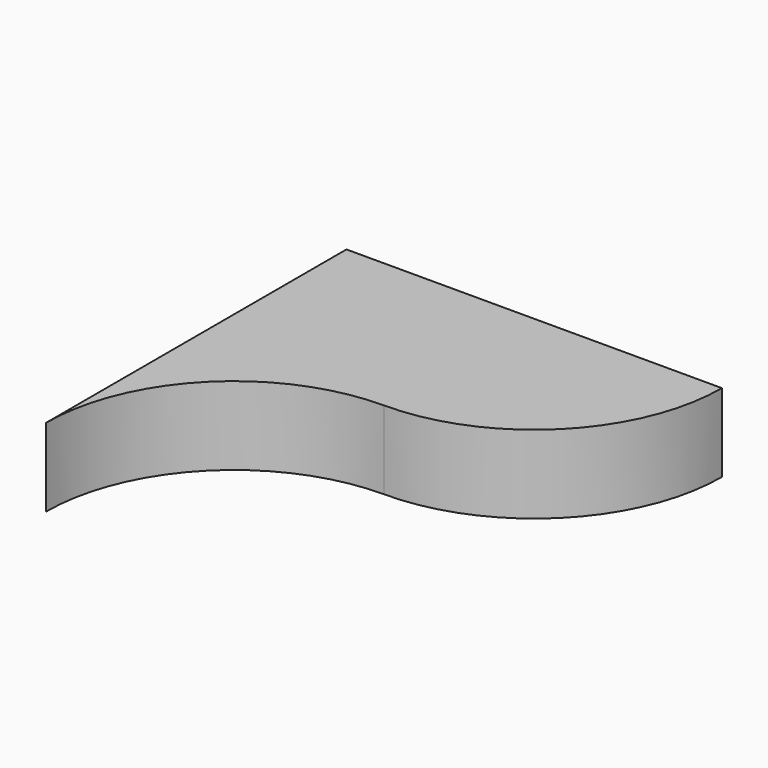
from build123d import *

# Parameters (mm, degrees)
F1_DEPTH = 25


with BuildPart() as f1:
    # F0 (on Top) → F1 (new body)
    with BuildSketch(Plane.XY):
        with BuildLine():
            Line((60, 120), (0, 120))
            Line((0, 120), (0, 60))
            ThreePointArc((0, 60), (42.426407, 77.573593), (60, 120))
        make_face()
        with BuildLine():
            Line((0, 60), (0, 120))
            Line((0, 120), (-60, 120))
            Line((-60, 120), (-60, 0))
            ThreePointArc((-60, 0), (-42.426407, 42.426407), (0, 60))
        make_face()
    extrude(amount=F1_DEPTH)


solid = f1.part
